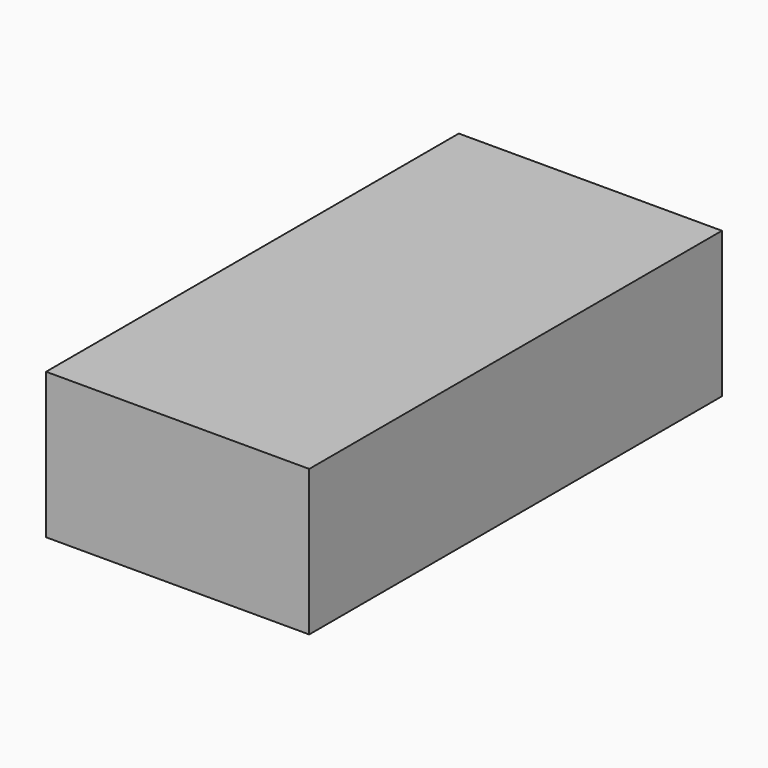
from build123d import *

# Parameters (mm, degrees)
F0_W      = 104.1721515357
F0_H      = 71.7630404979
F1_DEPTH  = 254
F1_FACE_W = 254
F1_FACE_H = 71.7630404979
F2_R      = 25.449665143
F2_R_2    = 11.4170803912
F3_DEPTH  = 25.4
F4_W      = 21.7701625079
F4_H      = 73.5019464046
F4_H_2    = 26.9834827632
F5_DEPTH  = 25.4


with BuildPart() as f1:
    # F0 (on Front) → F1 (new body)
    with BuildSketch(Plane.XZ):
        with Locations((7.3065180331, 8.8980374858)):
            Rectangle(F0_W, F0_H)
    extrude(amount=F1_DEPTH)

    # F1_face (on face) + F2 (on Right) → F3 (join)
    with BuildSketch(Plane(origin=(-44.7795577347, -127, 8.8980374858), x_dir=(0, -1, 0), z_dir=(-1, 0, 0))):
        Rectangle(F1_FACE_W, F1_FACE_H)
    with BuildSketch(Plane.YZ):
        with Locations((-35.3816822171, -13.4047763422)):
            Circle(F2_R)
        with Locations((-35.3816822171, -13.4047763422)):
            Circle(F2_R_2, mode=Mode.SUBTRACT)
    extrude(amount=F3_DEPTH, dir=(-1, 0, 0))

    # F4 (on face) → F5 (join)
    with BuildSketch(Plane(origin=(-70.1795577347, 0, 0), x_dir=(0, -1, 0), z_dir=(-1, 0, 0))):
        with Locations((36.9942905381, -63.7344559655)):
            Rectangle(F4_W, F4_H)
        with Locations((36.9942905381, -13.4917413816)):
            Rectangle(F4_W, F4_H_2)
    extrude(amount=F5_DEPTH)


solid = f1.part
